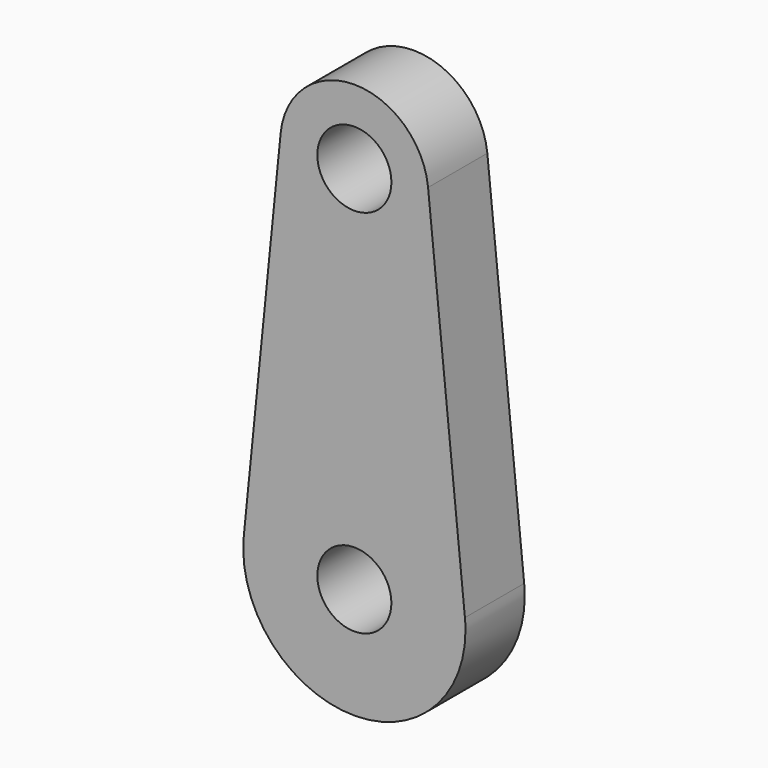
from build123d import *

# Parameters (mm, degrees)
F0_R     = 5
F1_DEPTH = 5


with BuildPart() as f1:
    # F0 (on Front) → F1 (new body, symmetric)
    with BuildSketch(Plane.XZ):
        with BuildLine():
            ThreePointArc((10, 50), (9.9874607311, 50.5006277506), (9.9498743711, 51))
            ThreePointArc((9.9498743711, 51), (0, 60), (-9.9498743711, 51))
            ThreePointArc((-9.9498743711, 51), (-0.5006277506, 40.0125392689), (10, 50))
        make_face()
        with Locations((0, 50)):
            Circle(F0_R, mode=Mode.SUBTRACT)
        with BuildLine():
            ThreePointArc((-14.9248115566, 1.5), (0, 15), (14.9248115566, 1.5))
            Line((14.9248115566, 1.5), (9.9498743711, 51))
            ThreePointArc((9.9498743711, 51), (9.9874607311, 50.5006277506), (10, 50))
            ThreePointArc((10, 50), (-0.5006277506, 40.0125392689), (-9.9498743711, 51))
            Line((-9.9498743711, 51), (-14.9248115566, 1.5))
        make_face()
        with BuildLine():
            ThreePointArc((-14.9248115566, 1.5), (-0.7509416259, -14.9811910967), (15, 0))
            ThreePointArc((15, 0), (14.9811910967, 0.7509416259), (14.9248115566, 1.5))
            ThreePointArc((14.9248115566, 1.5), (0, 15), (-14.9248115566, 1.5))
        make_face()
        Circle(F0_R, mode=Mode.SUBTRACT)
    extrude(amount=F1_DEPTH, both=True)


solid = f1.part
